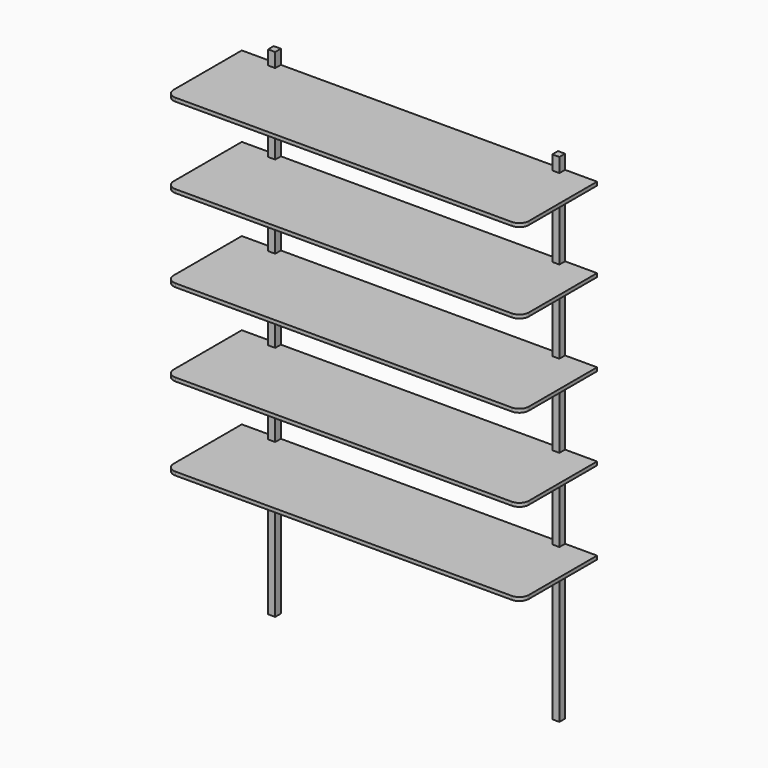
from build123d import *

# Parameters (mm, degrees)
F7_W      = 30
F7_H      = 30
F8_DEPTH  = 2100
F15_DEPTH = 15
F17_DEPTH = 15
F19_DEPTH = 15
F21_DEPTH = 15
F23_DEPTH = 15


with BuildPart() as f8:
    # F7 (on Top) → F8 (new body)
    with BuildSketch(Plane.XY):
        with Locations((-600, -15)):
            Rectangle(F7_W, F7_H)
    extrude(amount=F8_DEPTH)



with BuildPart() as f8b:
    # F7 (on Top) → F8, piece 2 (new body)
    with BuildSketch(Plane.XY):
        with Locations((600, -15)):
            Rectangle(F7_W, F7_H)
    extrude(amount=F8_DEPTH)


with BuildPart() as f8_1:
    add(f8.part)

    add(f8b.part)  # F15 merges F8b
    # F14 (on offset) → F15 (join)
    with BuildSketch(Plane.XY.offset(650)):
        with BuildLine():
            Line((585, 0), (0, 0))
            Line((0, 0), (-585, 0))
            Line((-585, 0), (-585, -30))
            Line((-585, -30), (-615, -30))
            Line((-615, -30), (-615, 0))
            Line((-615, 0), (-750, 0))
            Line((-750, 0), (-750, -360))
            ThreePointArc((-750, -360), (-738.2842712475, -388.2842712475), (-710, -400))
            Line((-710, -400), (0, -400))
            Line((0, -400), (710, -400))
            ThreePointArc((710, -400), (738.2842712475, -388.2842712475), (750, -360))
            Line((750, -360), (750, 0))
            Line((750, 0), (615, 0))
            Line((615, 0), (615, -30))
            Line((615, -30), (585, -30))
            Line((585, -30), (585, 0))
        make_face()
    extrude(amount=-F15_DEPTH)

    # F16 (on offset) → F17 (join)
    with BuildSketch(Plane.XY.offset(1000)):
        with BuildLine():
            Line((0, -400), (710, -400))
            ThreePointArc((710, -400), (738.2842712475, -388.2842712475), (750, -360))
            Line((750, -360), (750, 0))
            Line((750, 0), (615, 0))
            Line((615, 0), (615, -30))
            Line((615, -30), (585, -30))
            Line((585, -30), (585, 0))
            Line((585, 0), (0, 0))
            Line((0, 0), (-585, 0))
            Line((-585, 0), (-585, -30))
            Line((-585, -30), (-615, -30))
            Line((-615, -30), (-615, 0))
            Line((-615, 0), (-750, 0))
            Line((-750, 0), (-750, -360))
            ThreePointArc((-750, -360), (-738.2842712475, -388.2842712475), (-710, -400))
            Line((-710, -400), (0, -400))
        make_face()
    extrude(amount=-F17_DEPTH)

    # F18 (on offset) → F19 (join)
    with BuildSketch(Plane.XY.offset(1350)):
        with BuildLine():
            Line((0, -400), (710, -400))
            ThreePointArc((710, -400), (738.2842712475, -388.2842712475), (750, -360))
            Line((750, -360), (750, 0))
            Line((750, 0), (615, 0))
            Line((615, 0), (615, -30))
            Line((615, -30), (585, -30))
            Line((585, -30), (585, 0))
            Line((585, 0), (0, 0))
            Line((0, 0), (-585, 0))
            Line((-585, 0), (-585, -30))
            Line((-585, -30), (-615, -30))
            Line((-615, -30), (-615, 0))
            Line((-615, 0), (-750, 0))
            Line((-750, 0), (-750, -360))
            ThreePointArc((-750, -360), (-738.2842712475, -388.2842712475), (-710, -400))
            Line((-710, -400), (0, -400))
        make_face()
    extrude(amount=-F19_DEPTH)

    # F20 (on offset) → F21 (join)
    with BuildSketch(Plane.XY.offset(1700)):
        with BuildLine():
            Line((0, -400), (710, -400))
            ThreePointArc((710, -400), (738.2842712475, -388.2842712475), (750, -360))
            Line((750, -360), (750, 0))
            Line((750, 0), (615, 0))
            Line((615, 0), (615, -30))
            Line((615, -30), (585, -30))
            Line((585, -30), (585, 0))
            Line((585, 0), (0, 0))
            Line((0, 0), (-585, 0))
            Line((-585, 0), (-585, -30))
            Line((-585, -30), (-615, -30))
            Line((-615, -30), (-615, 0))
            Line((-615, 0), (-750, 0))
            Line((-750, 0), (-750, -360))
            ThreePointArc((-750, -360), (-738.2842712475, -388.2842712475), (-710, -400))
            Line((-710, -400), (0, -400))
        make_face()
    extrude(amount=-F21_DEPTH)

    # F22 (on offset) → F23 (join)
    with BuildSketch(Plane.XY.offset(2040)):
        with BuildLine():
            Line((0, -400), (710, -400))
            ThreePointArc((710, -400), (738.2842712475, -388.2842712475), (750, -360))
            Line((750, -360), (750, 0))
            Line((750, 0), (615, 0))
            Line((615, 0), (615, -30))
            Line((615, -30), (585, -30))
            Line((585, -30), (585, 0))
            Line((585, 0), (0, 0))
            Line((0, 0), (-585, 0))
            Line((-585, 0), (-585, -30))
            Line((-585, -30), (-615, -30))
            Line((-615, -30), (-615, 0))
            Line((-615, 0), (-750, 0))
            Line((-750, 0), (-750, -360))
            ThreePointArc((-750, -360), (-738.2842712475, -388.2842712475), (-710, -400))
            Line((-710, -400), (0, -400))
        make_face()
    extrude(amount=-F23_DEPTH)


solid = f8_1.part
